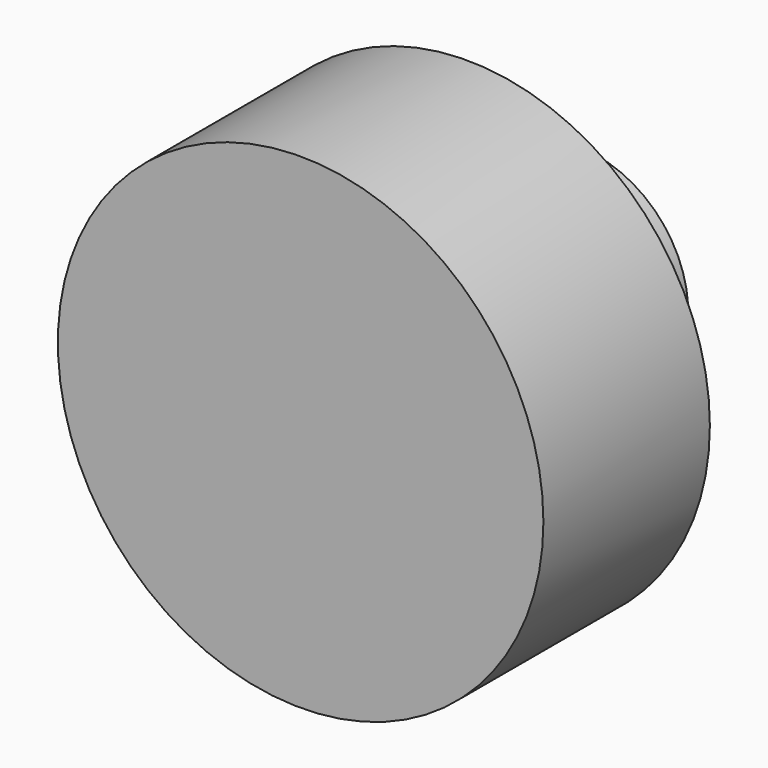
from build123d import *

# Parameters (mm, degrees)
F0_R     = 44.45
F0_R_2   = 31.75
F1_DEPTH = 38.1
F2_R     = 20.184497551
F3_DEPTH = 25.4
F4_R     = 23.9709309674
F5_DEPTH = 25.654


with BuildPart() as f1:
    # F0 (on Front) → F1 (new body)
    with BuildSketch(Plane.XZ):
        Circle(F0_R)
        Circle(F0_R_2, mode=Mode.SUBTRACT)
        Circle(F0_R_2)
    extrude(amount=F1_DEPTH)

    # F2 (on face) → F3 (join)
    with BuildSketch(Plane(origin=(0, 0, 0), x_dir=(-1, 0, 0), z_dir=(0, 1, 0))):
        Circle(F2_R)
    extrude(amount=F3_DEPTH)

    # F4 (on face) → F5 (join)
    with BuildSketch(Plane.XZ.offset(38.1)):
        Circle(F4_R)
    extrude(amount=-F5_DEPTH)


solid = f1.part
